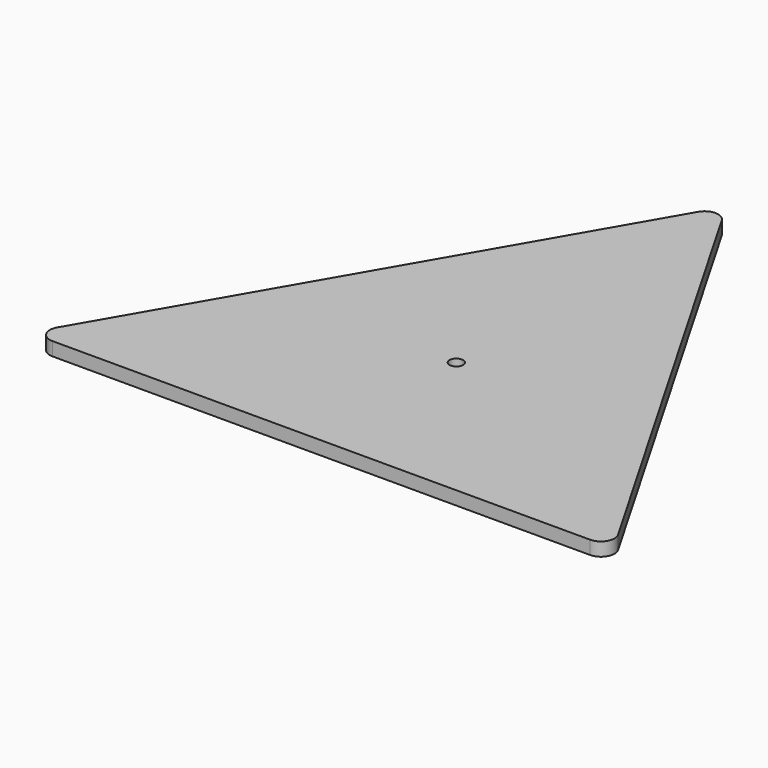
from build123d import *

# Parameters (mm, degrees)
F1_DEPTH = 3
F2_R     = 3
F3_R     = 1.5
F4_DEPTH = 3


with BuildPart() as f1:
    # F0 (on Top) → F1 (new body)
    with BuildSketch(Plane.XY):
        Polygon((0, 75.055535), (-65, -37.527767), (65, -37.527767), align=None)
    extrude(amount=F1_DEPTH)

    # F2
    f2_edges = [f1.edges().sort_by_distance(p)[0] for p in [
        (-65, -37.527767, 1.5),
        (65, -37.527767, 1.5),
        (0, 75.055535, 1.5),
    ]]
    fillet(f2_edges, radius=F2_R)

    # F3 (on face) → F4 (cut, through all)
    with BuildSketch(Plane.XY.offset(3)):
        Circle(F3_R)
    extrude(amount=-F4_DEPTH, mode=Mode.SUBTRACT)


solid = f1.part
